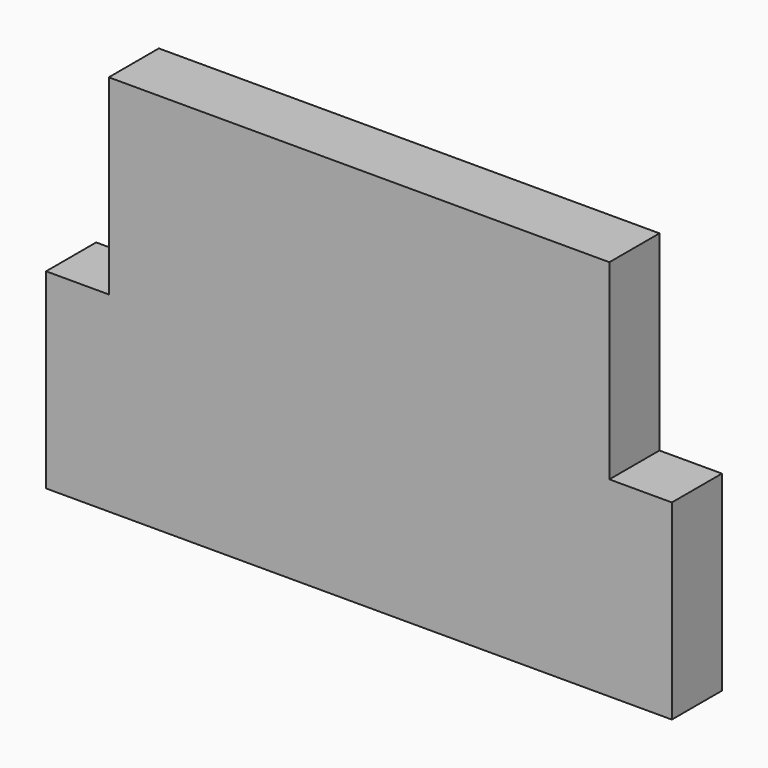
from build123d import *

# Parameters (mm, degrees)
F0_W     = 20.32
F0_H     = 2.571502
F0_H_2   = 2.610788
F1_DEPTH = 2.54


with BuildPart() as f1:
    # F0 (on Front) → F1 (new body)
    with BuildSketch(Plane.XZ):
        Polygon((-74.706252, 3.87985), (-74.706252, 0), (-62.006252, 0), (-49.306252, 0), (-49.306252, 3.87985), align=None)
        Polygon((-74.706252, 7.7597), (-74.706252, 3.87985), (-49.306252, 3.87985), (-49.306252, 7.7597), (-51.841478, 7.7597), (-62.006252, 7.7597), (-72.161478, 7.7597), align=None)
        Polygon((-72.161478, 10.33711), (-72.161478, 7.7597), (-62.006252, 7.7597), (-51.841478, 7.7597), (-51.841478, 10.33711), align=None)
        with Locations((-62.001478, 11.622861)):
            Rectangle(F0_W, F0_H)
        with Locations((-62.001478, 14.214006)):
            Rectangle(F0_W, F0_H_2)
    extrude(amount=-F1_DEPTH)


solid = f1.part
